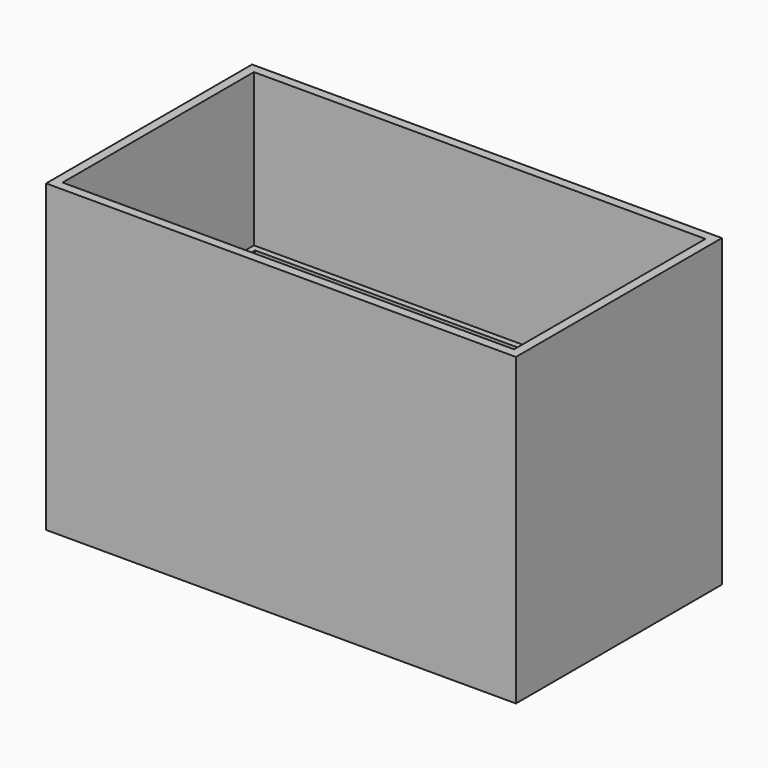
from build123d import *

# Parameters (mm, degrees)
F0_W     = 72
F0_H     = 37.2
F0_W_2   = 7.75
F0_H_2   = 6
F0_W_3   = 8.5
F0_W_4   = 67
F0_H_3   = 9
F0_H_4   = 7.35
F0_W_5   = 14
F1_DEPTH = 1
F0_W_6   = 1
F2_DEPTH = 25
F3_DEPTH = 50
F5_R     = 1.45
F6_DEPTH = 1
F7_SIZE  = 0.5
F8_R     = 1.5


with BuildPart() as f1:
    # F0 (on Top) → F1 (new body)
    with BuildSketch(Plane.XY):
        Rectangle(F0_W, F0_H)
        with Locations((-29.625, -14.6)):
            Rectangle(F0_W_2, F0_H_2, mode=Mode.SUBTRACT)
        with Locations((-20, -14.6)):
            Rectangle(F0_W_3, F0_H_2, mode=Mode.SUBTRACT)
        with Locations((-10, -14.6)):
            Rectangle(F0_W_3, F0_H_2, mode=Mode.SUBTRACT)
        with Locations((0, -14.6)):
            Rectangle(F0_W_3, F0_H_2, mode=Mode.SUBTRACT)
        with Locations((10, -14.6)):
            Rectangle(F0_W_3, F0_H_2, mode=Mode.SUBTRACT)
        with Locations((20, -14.6)):
            Rectangle(F0_W_3, F0_H_2, mode=Mode.SUBTRACT)
        with Locations((29.625, -14.6)):
            Rectangle(F0_W_2, F0_H_2, mode=Mode.SUBTRACT)
        with Locations((0, -5.1)):
            Rectangle(F0_W_4, F0_H_3, mode=Mode.SUBTRACT)
        with Locations((-29.625, 5.075)):
            Rectangle(F0_W_2, F0_H_4, mode=Mode.SUBTRACT)
        with Locations((-20, 5.075)):
            Rectangle(F0_W_3, F0_H_4, mode=Mode.SUBTRACT)
        with Locations((-10, 5.075)):
            Rectangle(F0_W_3, F0_H_4, mode=Mode.SUBTRACT)
        with Locations((-29.625, 13.925)):
            Rectangle(F0_W_2, F0_H_4, mode=Mode.SUBTRACT)
        with Locations((-20, 13.925)):
            Rectangle(F0_W_3, F0_H_4, mode=Mode.SUBTRACT)
        with Locations((-10, 13.925)):
            Rectangle(F0_W_3, F0_H_4, mode=Mode.SUBTRACT)
        with Locations((0, 5.075)):
            Rectangle(F0_W_3, F0_H_4, mode=Mode.SUBTRACT)
        with Locations((10, 5.075)):
            Rectangle(F0_W_3, F0_H_4, mode=Mode.SUBTRACT)
        with Locations((0, 13.925)):
            Rectangle(F0_W_3, F0_H_4, mode=Mode.SUBTRACT)
        with Locations((10, 13.925)):
            Rectangle(F0_W_3, F0_H_4, mode=Mode.SUBTRACT)
        with Locations((25.25, 11.1)):
            Rectangle(F0_W_5, F0_H_3, mode=Mode.SUBTRACT)
    extrude(amount=F1_DEPTH)

    # F0 (on Top) → F2 (join)
    with BuildSketch(Plane.XY):
        Polygon((36, 18.6), (37, 18.6), (37, 19.6), (-37, 19.6), (-37, 18.6), (-36, 18.6), align=None)
        Polygon((37, -19.6), (37, -18.6), (36, -18.6), (-36, -18.6), (-37, -18.6), (-37, -19.6), align=None)
        with Locations((-36.5, 0)):
            Rectangle(F0_W_6, F0_H)
        with Locations((36.5, 0)):
            Rectangle(F0_W_6, F0_H)
    extrude(amount=F2_DEPTH)

    # F0 (on Top) → F3 (join)
    with BuildSketch(Plane.XY):
        Polygon((38.5, -19.6), (37, -19.6), (-37, -19.6), (-38.5, -19.6), (-38.5, -21.1), (38.5, -21.1), align=None)
        Polygon((-37, 18.6), (-37, 19.6), (-38.5, 19.6), (-38.5, -19.6), (-37, -19.6), (-37, -18.6), align=None)
        Polygon((37, 19.6), (37, 18.6), (37, -18.6), (37, -19.6), (38.5, -19.6), (38.5, 19.6), align=None)
        Polygon((-37, 19.6), (37, 19.6), (38.5, 19.6), (38.5, 21.1), (-38.5, 21.1), (-38.5, 19.6), align=None)
    extrude(amount=F3_DEPTH)

    # F5 (on face) → F6 (join)
    with BuildSketch(Plane.YZ.offset(-37)):
        with Locations((3.15, 30.17)):
            Circle(F5_R)
    extrude(amount=F6_DEPTH)

    # F7
    f7_edges = [f1.edges().sort_by_distance(p)[0] for p in [
        (-36, 1.7, 30.17),
    ]]
    chamfer(f7_edges, length=F7_SIZE)

    # F8
    f8_edges = [f1.edges().sort_by_distance(p)[0] for p in [
        (-36, 2.2, 30.17),
    ]]
    fillet(f8_edges, radius=F8_R)


solid = f1.part
